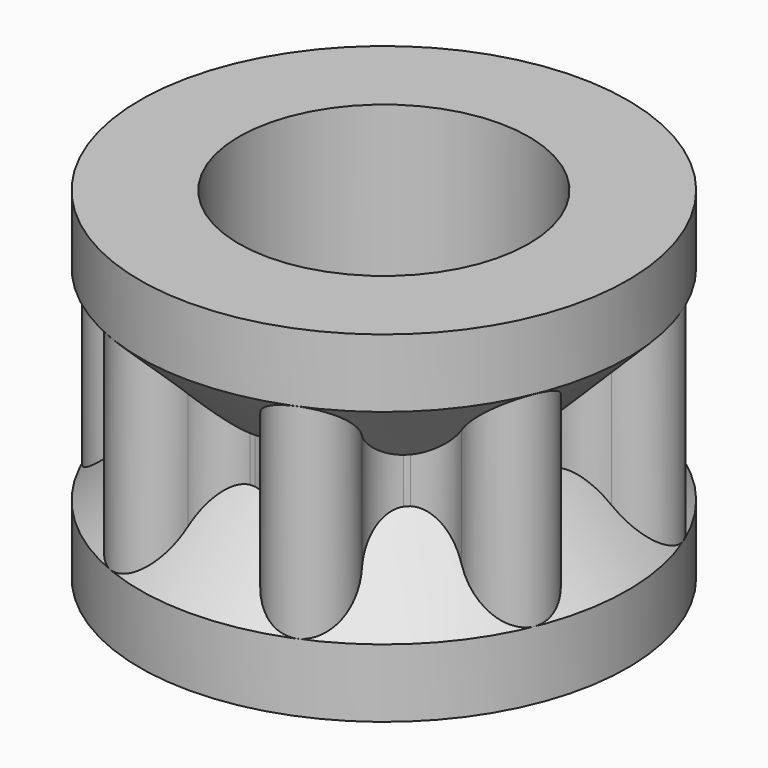
from build123d import *

# Parameters (mm, degrees)
SKETCH003_R      = 5.1
EXTRUDE004_DEPTH = 6


with BuildPart() as revolve_body:
    # Sketch008 → Revolve (revolve)
    with BuildSketch(Plane.YZ):
        Polygon((-8.58, 6), (-8.58, 3.6), (-5.78, 0.8), (-5.78, -0.8), (-8.58, -3.6), (-8.58, -6), (-5.5, -6), (-5.5, 6), align=None)
    revolve(axis=Axis((0, 0, 0), (0, 0, 1)))


with BuildPart() as idlergear:
    # Sketch003 → Extrude004 (new body, symmetric)
    with BuildSketch(Plane.XY):
        with BuildLine():
            ThreePointArc((1.373099, -6.903037), (0, -5.776163), (-1.373099, -6.903037))
            ThreePointArc((-3.910251, -5.852105), (-3.28196, -7.92334), (-1.373099, -6.903037))
            ThreePointArc((-3.910251, -5.852105), (-4.084365, -4.084363), (-5.852107, -3.910253))
            ThreePointArc((-6.903031, -1.373098), (-7.923342, -3.281956), (-5.852107, -3.910253))
            ThreePointArc((-6.903031, -1.373098), (-5.776163, 0), (-6.903031, 1.373098))
            ThreePointArc((-5.852107, 3.910253), (-7.923342, 3.281956), (-6.903031, 1.373098))
            ThreePointArc((-5.852107, 3.910253), (-4.084363, 4.084365), (-3.910255, 5.85211))
            ThreePointArc((-1.373099, 6.903037), (-3.281957, 7.923341), (-3.910255, 5.85211))
            ThreePointArc((-1.373099, 6.903037), (0, 5.776163), (1.373099, 6.903037))
            ThreePointArc((3.910255, 5.85211), (3.281957, 7.923341), (1.373099, 6.903037))
            ThreePointArc((3.910255, 5.85211), (4.084362, 4.084366), (5.852105, 3.910251))
            ThreePointArc((6.903037, 1.373099), (7.92334, 3.28196), (5.852105, 3.910251))
            ThreePointArc((6.903037, 1.373099), (5.776163, 0), (6.903037, -1.373099))
            ThreePointArc((5.852112, -3.910256), (7.923342, -3.281956), (6.903037, -1.373099))
            ThreePointArc((5.852112, -3.910256), (4.084364, -4.084364), (3.910256, -5.852112))
            ThreePointArc((1.373099, -6.903037), (3.281956, -7.923342), (3.910256, -5.852112))
        make_face()
        Circle(SKETCH003_R, mode=Mode.SUBTRACT)
    extrude(amount=EXTRUDE004_DEPTH, both=True)

    # Fusion004: union Revolve body
    add(revolve_body.part)


with BuildPart() as idlergear_1:
    # Fusion004 placement: moved
    add(idlergear.part.moved(Location((-33.693581, 0, 0))))


solid = idlergear_1.part
